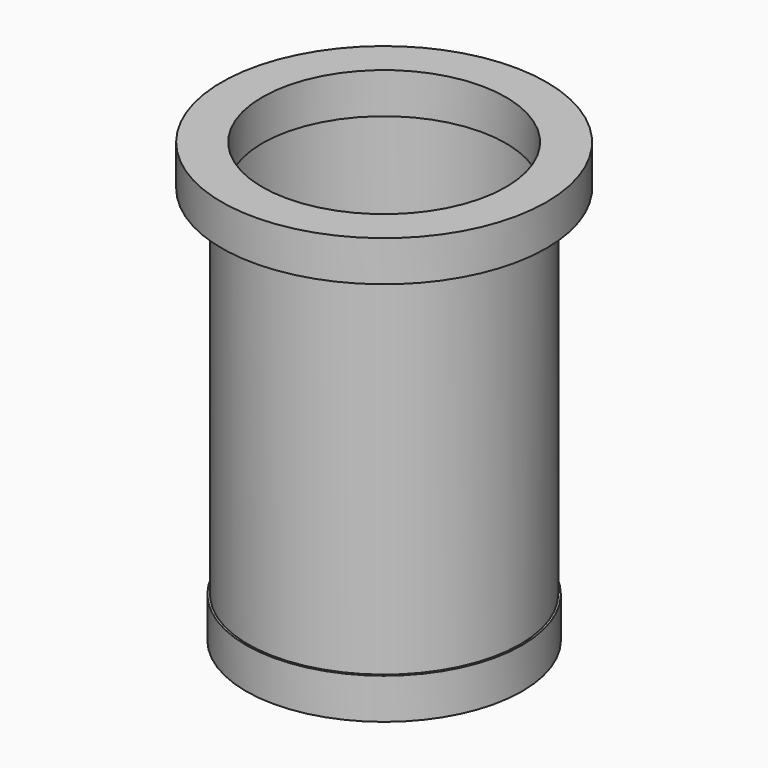
from build123d import *

# Parameters (mm, degrees)
CYLINDER_R     = 34
CYLINDER_DEPTH = 10
TUBE_R         = 33.5
TUBE_R_2       = 32
TUBE_DEPTH     = 100
TUBE003_R      = 38.5
TUBE003_R_2    = 35.5
TUBE003_DEPTH  = 10
TUBE002_R      = 34.5
TUBE002_R_2    = 31.5
TUBE002_DEPTH  = 100
TUBE001_R      = 40
TUBE001_R_2    = 30
TUBE001_DEPTH  = 10


with BuildPart() as cilindro:
    # Cylinder → Cylinder (new body)
    with BuildSketch(Plane.XY):
        Circle(CYLINDER_R)
    extrude(amount=CYLINDER_DEPTH)


with BuildPart() as obj1:
    # Tube → Tube (new body)
    with BuildSketch(Plane.XY):
        Circle(TUBE_R)
        Circle(TUBE_R_2, mode=Mode.SUBTRACT)
    extrude(amount=TUBE_DEPTH)

    # Fusion: union Cilindro
    add(cilindro.part)


with BuildPart() as tube003:
    # Tube003 → Tube003 (new body)
    with BuildSketch(Plane.XY.offset(92)):
        Circle(TUBE003_R)
        Circle(TUBE003_R_2, mode=Mode.SUBTRACT)
    extrude(amount=TUBE003_DEPTH)


with BuildPart() as tube002:
    # Tube002 → Tube002 (new body)
    with BuildSketch(Plane.XY):
        Circle(TUBE002_R)
        Circle(TUBE002_R_2, mode=Mode.SUBTRACT)
    extrude(amount=TUBE002_DEPTH)


with BuildPart() as cut001:
    # Tube001 → Tube001 (new body)
    with BuildSketch(Plane.XY.offset(98)):
        Circle(TUBE001_R)
        Circle(TUBE001_R_2, mode=Mode.SUBTRACT)
    extrude(amount=TUBE001_DEPTH)

    # Cut: cut Tube002
    add(tube002.part, mode=Mode.SUBTRACT)

    # Cut001: cut Tube003
    add(tube003.part, mode=Mode.SUBTRACT)


solid = Compound([obj1.part, cut001.part])
